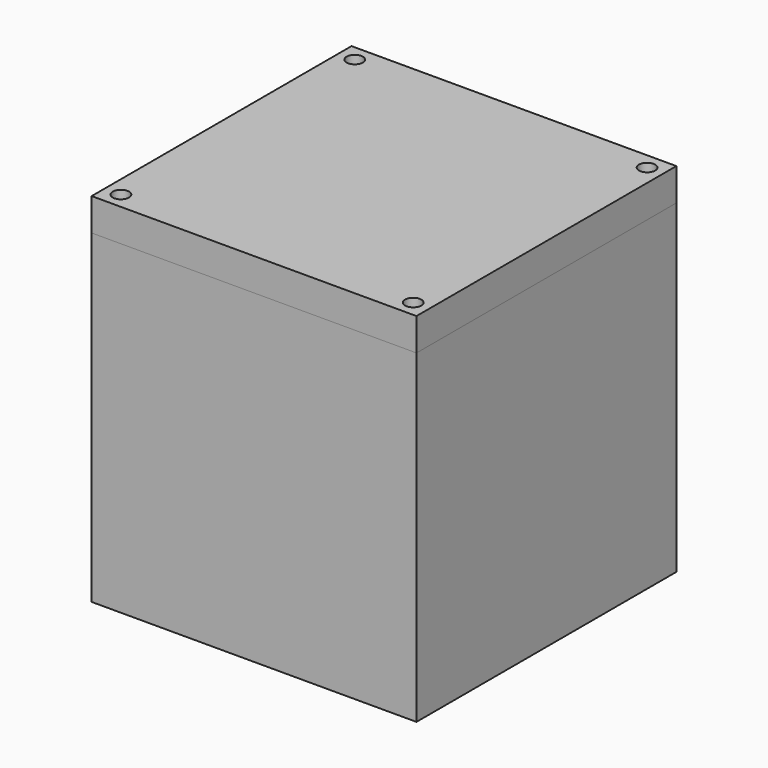
from build123d import *

# Parameters (mm, degrees)
F0_W     = 100
F0_H     = 100
F1_DEPTH = 100
F2_W     = 80
F2_H     = 80
F3_DEPTH = 100.001
F4_R     = 2.5
F5_DEPTH = 100.001
F6_W     = 100
F6_H     = 100
F6_R     = 2.5
F7_DEPTH = 10


with BuildPart() as f1:
    # F0 (on Top) → F1 (new body)
    with BuildSketch(Plane.XY):
        with Locations((5.003134, 9.529437)):
            Rectangle(F0_W, F0_H)
    extrude(amount=F1_DEPTH)

    # F2 (on face) → F3 (cut, through all)
    with BuildSketch(Plane.XY.offset(100)):
        with Locations((5.003134, 9.529437)):
            Rectangle(F2_W, F2_H)
    extrude(amount=-F3_DEPTH, mode=Mode.SUBTRACT)

    # F4 (on face) → F5 (cut, through all)
    with BuildSketch(Plane.XY.offset(100)):
        with Locations((-39.996866, 54.529437)):
            Circle(F4_R)
        with Locations((50.003134, 54.529437)):
            Circle(F4_R)
        with Locations((-39.996866, -35.470563)):
            Circle(F4_R)
        with Locations((50.003134, -35.470563)):
            Circle(F4_R)
    extrude(amount=-F5_DEPTH, mode=Mode.SUBTRACT)


with BuildPart() as f7:
    # F6 (on face) → F7 (new body)
    with BuildSketch(Plane.XY.offset(100)):
        with Locations((5.003134, 9.529437)):
            Rectangle(F6_W, F6_H)
        with Locations((-39.996866, -35.470563)):
            Circle(F6_R, mode=Mode.SUBTRACT)
        with Locations((50.003134, -35.470563)):
            Circle(F6_R, mode=Mode.SUBTRACT)
        with Locations((-39.996866, 54.529437)):
            Circle(F6_R, mode=Mode.SUBTRACT)
        with Locations((50.003134, 54.529437)):
            Circle(F6_R, mode=Mode.SUBTRACT)
    extrude(amount=F7_DEPTH)


solid = Compound([f1.part, f7.part])
